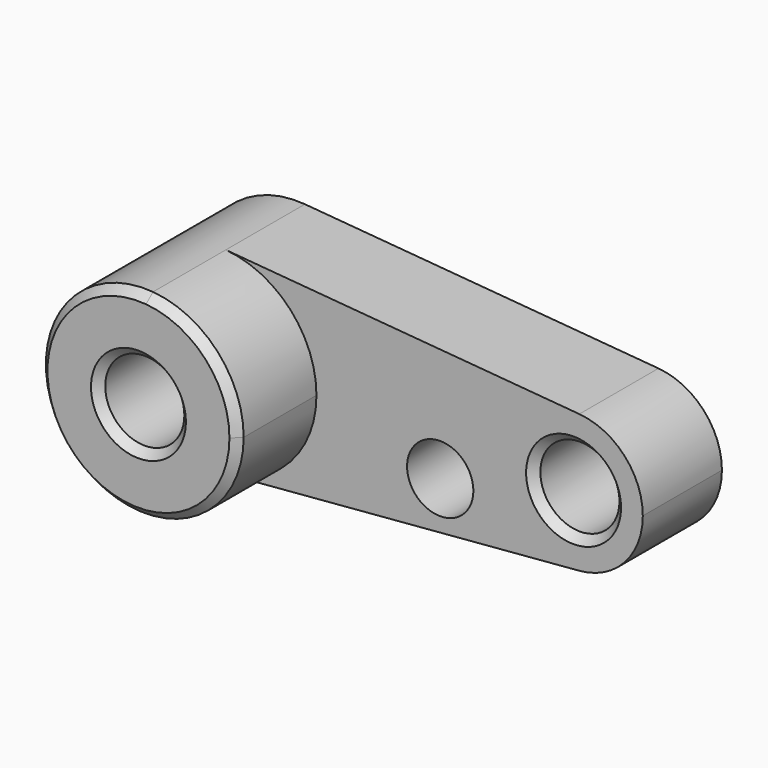
from build123d import *

# Parameters (mm, degrees)
F0_R     = 10
F1_DEPTH = 25
F2_DEPTH = 50
F3_SIZE  = 2
F4_R     = 8.379522
F5_DEPTH = 34.1921


with BuildPart() as f1:
    # F0 (on Front) → F1 (new body)
    with BuildSketch(Plane.XZ):
        with BuildLine():
            ThreePointArc((2.083333, -24.913043), (18.399502, -16.92508), (25, 0))
            ThreePointArc((25, 0), (18.399502, 16.92508), (2.083333, 24.913043))
            ThreePointArc((2.083333, 24.913043), (-25, 0), (2.083333, -24.913043))
        make_face()
        Circle(F0_R, mode=Mode.SUBTRACT)
        with BuildLine():
            ThreePointArc((2.083333, 24.913043), (18.399502, 16.92508), (25, 0))
            ThreePointArc((25, 0), (18.399502, -16.92508), (2.083333, -24.913043))
            Line((2.083333, -24.913043), (91.458333, -17.43913))
            ThreePointArc((91.458333, -17.43913), (72.5, 0), (91.458333, 17.43913))
            Line((91.458333, 17.43913), (2.083333, 24.913043))
        make_face()
        with BuildLine():
            ThreePointArc((107.5, 0), (102.879651, 11.847556), (91.458333, 17.43913))
            ThreePointArc((91.458333, 17.43913), (72.5, 0), (91.458333, -17.43913))
            ThreePointArc((91.458333, -17.43913), (102.879651, -11.847556), (107.5, 0))
        make_face()
        with Locations((90, 0)):
            Circle(F0_R, mode=Mode.SUBTRACT)
    extrude(amount=F1_DEPTH)

    # F0 (on Front) → F2 (join)
    with BuildSketch(Plane.XZ):
        with BuildLine():
            ThreePointArc((2.083333, -24.913043), (18.399502, -16.92508), (25, 0))
            ThreePointArc((25, 0), (18.399502, 16.92508), (2.083333, 24.913043))
            ThreePointArc((2.083333, 24.913043), (-25, 0), (2.083333, -24.913043))
        make_face()
        Circle(F0_R, mode=Mode.SUBTRACT)
    extrude(amount=F2_DEPTH)

    # F3
    f3_edges = [f1.edges().sort_by_distance(p)[0] for p in [
        (-2.083333, -50, 24.913043),
        (-10, -50, 0),
        (80, -25, 0),
    ]]
    chamfer(f3_edges, length=F3_SIZE)

    # F4 (on Front) → F5 (cut)
    with BuildSketch(Plane.XZ):
        with Locations((56.286983, -8.367218)):
            Circle(F4_R)
    extrude(amount=F5_DEPTH, mode=Mode.SUBTRACT)


solid = f1.part
